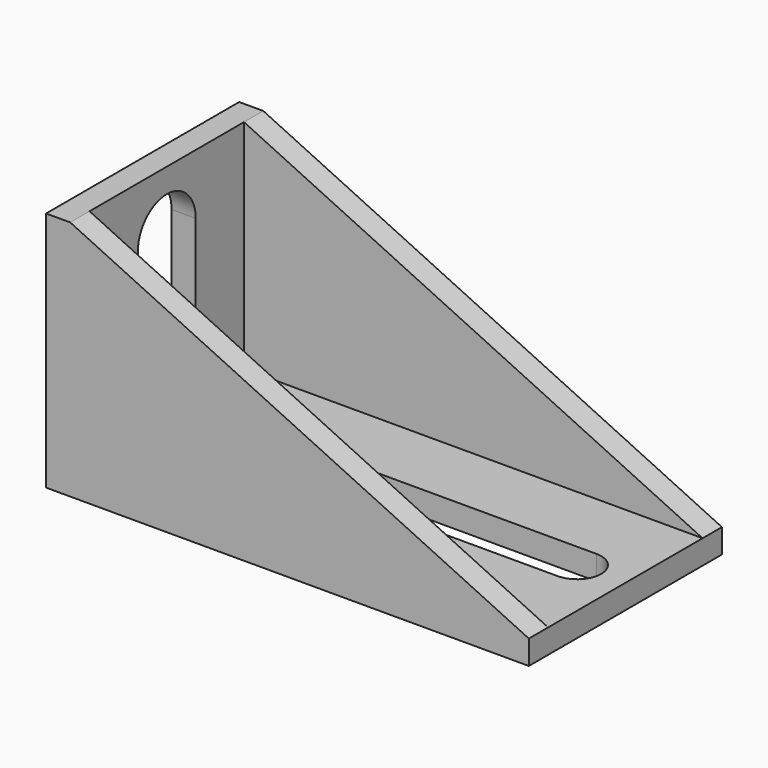
from build123d import *

# Parameters (mm, degrees)
CYLINDER002_R             = 3
CYLINDER002_DEPTH         = 2
BOX001_W                  = 8
BOX001_H                  = 6
BOX001_DEPTH              = 2
CYLINDER003_R             = 3
CYLINDER003_DEPTH         = 2
FUSION001_PLACEMENT_ANGLE = 270
CYLINDER_R                = 2
CYLINDER_DEPTH            = 2
BOX_W                     = 30
BOX_H                     = 4
BOX_DEPTH                 = 2
CYLINDER001_R             = 2
CYLINDER001_DEPTH         = 2
PAD001_DEPTH              = 16
PAD_DEPTH                 = 20


with BuildPart() as cylinder002:
    # Cylinder002 → Cylinder002 (new body)
    with BuildSketch(Plane.XY):
        Circle(CYLINDER002_R)
    extrude(amount=CYLINDER002_DEPTH)


with BuildPart() as cube001:
    # Box001 → Box001 (new body)
    with BuildSketch(Plane(origin=(0, -3, 0), x_dir=(1, 0, 0), z_dir=(0, 0, 1))):
        with Locations((4, 3)):
            Rectangle(BOX001_W, BOX001_H)
    extrude(amount=BOX001_DEPTH)


with BuildPart() as longhole002:
    # Cylinder003 → Cylinder003 (new body)
    with BuildSketch(Plane(origin=(8, 0, 0), x_dir=(1, 0, 0), z_dir=(0, 0, 1))):
        Circle(CYLINDER003_R)
    extrude(amount=CYLINDER003_DEPTH)

    # Fusion001: union Cylinder002, Cube001
    add(cylinder002.part)
    add(cube001.part)


with BuildPart() as longhole002_1:
    # Fusion001 placement: moved
    add(longhole002.part.moved(Location((2, -10, 7))).rotate(Axis((2, -10, 7), (0, 1, 0)), FUSION001_PLACEMENT_ANGLE))


with BuildPart() as cylinder:
    # Cylinder → Cylinder (new body)
    with BuildSketch(Plane.XY):
        Circle(CYLINDER_R)
    extrude(amount=CYLINDER_DEPTH)


with BuildPart() as cube:
    # Box → Box (new body)
    with BuildSketch(Plane(origin=(0, -2, 0), x_dir=(1, 0, 0), z_dir=(0, 0, 1))):
        with Locations((15, 2)):
            Rectangle(BOX_W, BOX_H)
    extrude(amount=BOX_DEPTH)


with BuildPart() as longhole1:
    # Cylinder001 → Cylinder001 (new body)
    with BuildSketch(Plane(origin=(30, 0, 0), x_dir=(1, 0, 0), z_dir=(0, 0, 1))):
        Circle(CYLINDER001_R)
    extrude(amount=CYLINDER001_DEPTH)

    # Fusion: union Cylinder, Cube
    add(cylinder.part)
    add(cube.part)


with BuildPart() as longhole1_1:
    # Fusion placement: moved
    add(longhole1.part.moved(Location((6, -10, 0))))


with BuildPart() as body001:
    # Sketch001 → Pad001 (new body)
    with BuildSketch(Plane.XZ):
        Polygon((2, 20), (40, 2), (2, 2), align=None)
    extrude(amount=PAD001_DEPTH)


with BuildPart() as body001_1:
    # Body001 placement: moved
    add(body001.part.moved(Location((0, -2, 0))))


with BuildPart() as modularmountingbracket:
    # Sketch → Pad (new body)
    with BuildSketch(Plane.XZ):
        Polygon((0, 20), (0, 0), (40, 0), (40, 2), (2, 20), align=None)
    extrude(amount=PAD_DEPTH)

    # Cut: cut Body001
    add(body001_1.part, mode=Mode.SUBTRACT)

    # Cut001: cut LongHole1
    add(longhole1_1.part, mode=Mode.SUBTRACT)

    # Cut002: cut LongHole002
    add(longhole002_1.part, mode=Mode.SUBTRACT)


solid = modularmountingbracket.part
